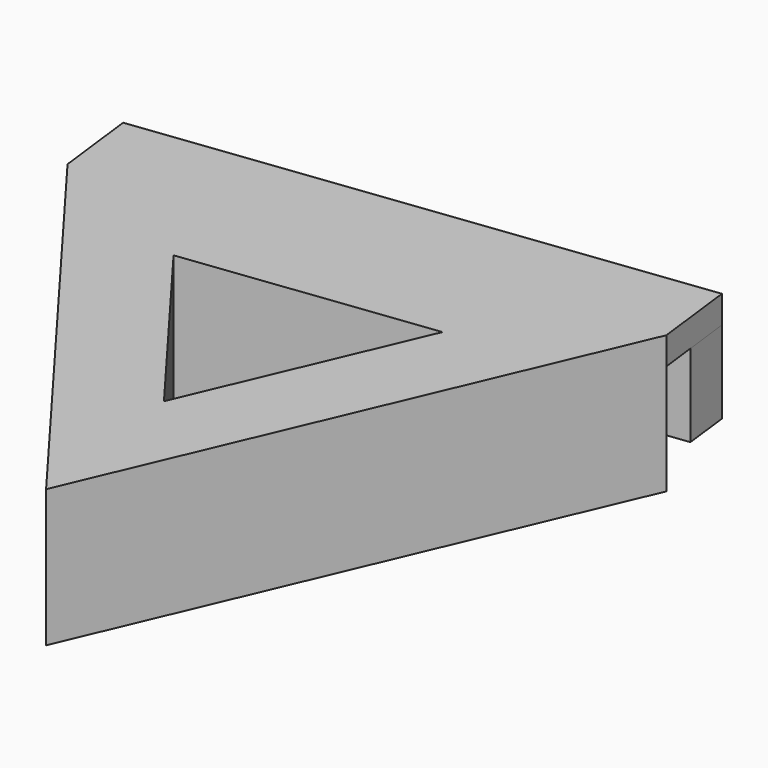
from build123d import *

# Parameters (mm, degrees)
F1_DEPTH = 6.35
F2_DEPTH = 6.35
F3_W     = 50.8
F3_H     = 2.54
F4_DEPTH = 7.62
F6_DEPTH = 7.62


with BuildPart() as f1:
    # F0 (on Top) → F1 (new body)
    with BuildSketch(Plane.XY):
        Polygon((-9.9593002213, -19.26124861), (9.9593002213, 27.47085338), (-40.4711874956, 21.3548163761), align=None)
        Polygon((-10.5709039217, -14.2181998383), (-35.7979772966, 19.3629563319), (5.8976937227, 24.4196646526), align=None, mode=Mode.SUBTRACT)
        Polygon((5.8976937227, 24.4196646526), (-35.7979772966, 19.3629563319), (-10.5709039217, -14.2181998383), align=None)
        Polygon((-11.293270497, -8.2618430214), (-30.2784376915, 17.0103657284), (1.1005206928, 20.8158984391), align=None, mode=Mode.SUBTRACT)
        Polygon((1.1005206928, 20.8158984391), (-30.2784376915, 17.0103657284), (-11.293270497, -8.2618430214), align=None)
        Polygon((-11.9048741973, -3.2187942497), (-25.6052274925, 15.0185056841), (-2.9610858058, 17.7647097116), align=None, mode=Mode.SUBTRACT)
    extrude(amount=F1_DEPTH)

    # F0 (on Top) → F2 (join)
    with BuildSketch(Plane.XY):
        Polygon((-9.9593002213, -19.26124861), (9.9593002213, 27.47085338), (-40.4711874956, 21.3548163761), align=None)
        Polygon((-10.5709039217, -14.2181998383), (-35.7979772966, 19.3629563319), (5.8976937227, 24.4196646526), align=None, mode=Mode.SUBTRACT)
        Polygon((1.1005206928, 20.8158984391), (-30.2784376915, 17.0103657284), (-11.293270497, -8.2618430214), align=None)
        Polygon((-11.9048741973, -3.2187942497), (-25.6052274925, 15.0185056841), (-2.9610858058, 17.7647097116), align=None, mode=Mode.SUBTRACT)
    extrude(amount=-F2_DEPTH)

    # F3 (on face) → F4 (join)
    with BuildSketch(Plane(origin=(-3.1389223385, 25.8823457631, 0), x_dir=(-0.9927261362, -0.1203944292, 0), z_dir=(-0.1203944292, 0.9927261362, 0))):
        with Locations((12.2058046598, 5.08)):
            Rectangle(F3_W, F3_H)
    extrude(amount=F4_DEPTH)

    # F5 (on face) → F6 (join)
    with BuildSketch(Plane(origin=(0, 0, 3.81), x_dir=(1, 0, 0), z_dir=(0, 0, -1))):
        Polygon((9.5617578161, -30.7488350816), (-40.8687299009, -24.6327980777), (-41.3885930462, -28.9193895337), (9.0418946707, -35.0354265375), align=None)
    extrude(amount=F6_DEPTH)


solid = f1.part
